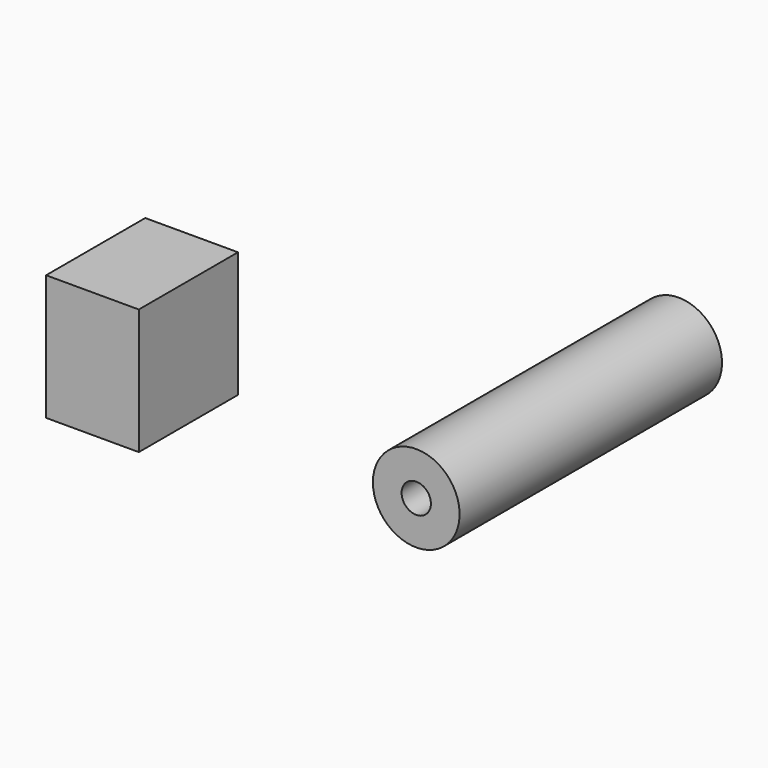
from build123d import *

# Parameters (mm, degrees)
F0_W     = 18.462919
F0_H     = 24.678637
F1_DEPTH = 25
F2_W     = 5.710856
F2_H     = 65.300852


with BuildPart() as f1:
    # F0 (on Top) → F1 (new body)
    with BuildSketch(Plane.XY):
        with Locations((-49.689777, -37.366877)):
            Rectangle(F0_W, F0_H)
    extrude(amount=F1_DEPTH)


with BuildPart() as f3:
    # F2 (on Top) → F3 (revolve)
    with BuildSketch(Plane.XY):
        with Locations((-2.855428, -2.235092)):
            Rectangle(F2_W, F2_H)
    revolve(axis=Axis((2.918897, -2.405457, 0), (0, -1, 0)))


solid = Compound([f1.part, f3.part])
